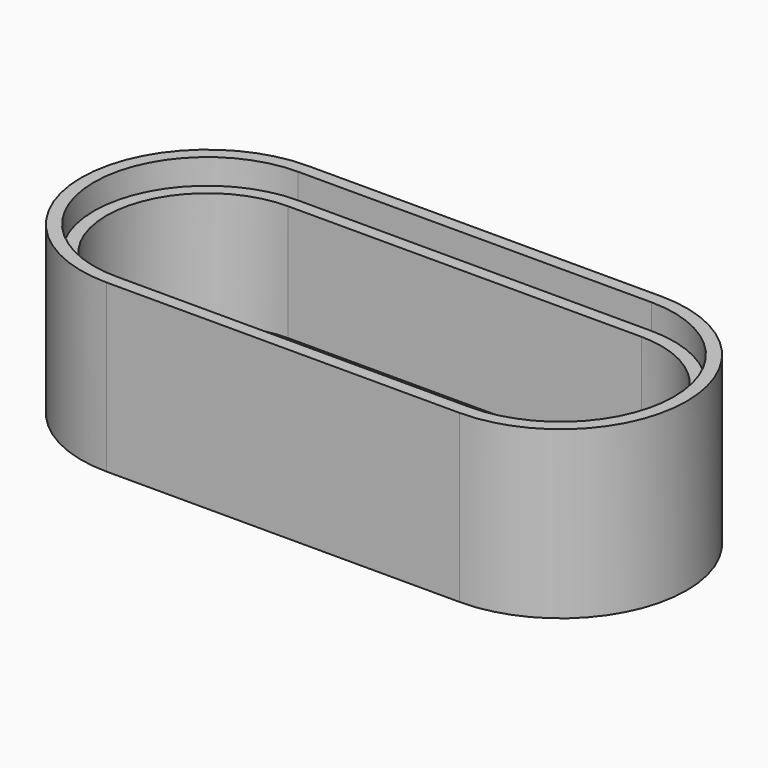
from build123d import *

# Parameters (mm, degrees)
F1_DEPTH = 14
F2_T     = -2.5
F4_DEPTH = 2.5


with BuildPart() as f1:
    # F0 (on Top) → F1 (new body)
    with BuildSketch(Plane.XY):
        with BuildLine():
            ThreePointArc((-9.6649585424, 8.357251808), (-22.1649585424, -4.142748192), (-9.6649585424, -16.642748192))
            Line((-9.6649585424, -16.642748192), (25.3350414576, -16.642748192))
            ThreePointArc((25.3350414576, -16.642748192), (37.8350414576, -4.142748192), (25.3350414576, 8.357251808))
            Line((25.3350414576, 8.357251808), (-9.6649585424, 8.357251808))
        make_face()
    extrude(amount=F1_DEPTH)

    # F2
    f2_openings = [f1.faces().sort_by_distance(p)[0] for p in [
        (7.835041, -4.142748, 14),
    ]]
    offset(amount=F2_T, openings=f2_openings)

    # F3 (on face) → F4 (join)
    with BuildSketch(Plane.XY.offset(14)):
        with BuildLine():
            ThreePointArc((25.3350414576, -16.642748192), (37.8350414576, -4.142748192), (25.3350414576, 8.357251808))
            Line((25.3350414576, 8.357251808), (-9.6649585424, 8.357251808))
            ThreePointArc((-9.6649585424, 8.357251808), (-22.1649585424, -4.142748192), (-9.6649585424, -16.642748192))
            Line((-9.6649585424, -16.642748192), (25.3350414576, -16.642748192))
        make_face()
        with BuildLine():
            Line((-9.6649585424, 7.107251808), (25.3350414576, 7.107251808))
            ThreePointArc((25.3350414576, 7.107251808), (36.5850414576, -4.142748192), (25.3350414576, -15.392748192))
            Line((25.3350414576, -15.392748192), (-9.6649585424, -15.392748192))
            ThreePointArc((-9.6649585424, -15.392748192), (-20.9149585424, -4.142748192), (-9.6649585424, 7.107251808))
        make_face(mode=Mode.SUBTRACT)
    extrude(amount=F4_DEPTH)


solid = f1.part
